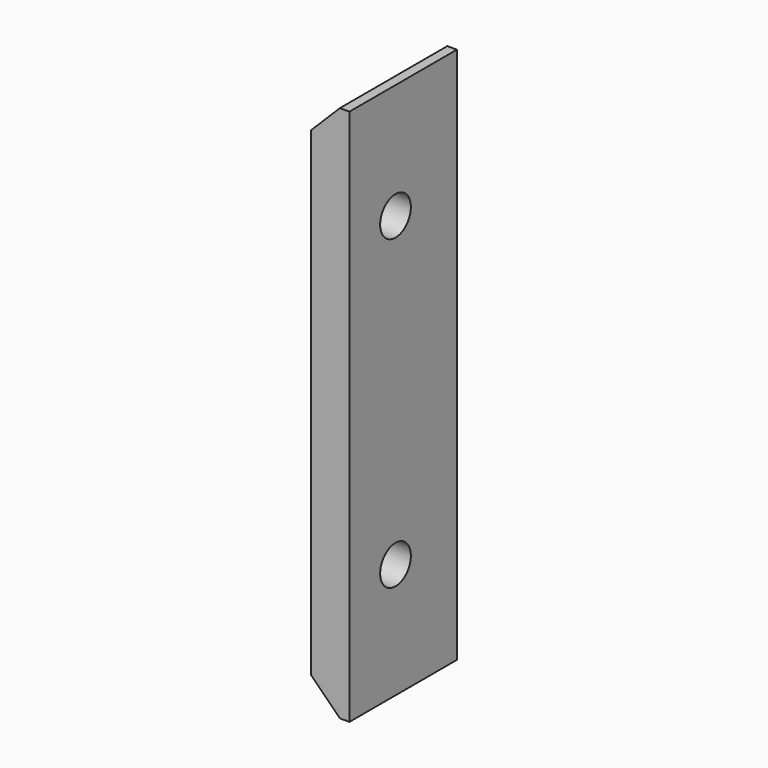
from build123d import *

# Parameters (mm, degrees)
CYLINDER2204_R     = 1
CYLINDER2204_DEPTH = 20
CYLINDER2203_R     = 1
CYLINDER2203_DEPTH = 20
BOX850_W           = 2
BOX850_H           = 7
BOX850_DEPTH       = 28
CHAMFER069_SIZE    = 1.5


with BuildPart() as obj1:
    # Cylinder2204 → Cylinder2204 (new body)
    with BuildSketch(Plane(origin=(-17, -108, 18), x_dir=(0, 0, -1), z_dir=(1, 0, 0))):
        Circle(CYLINDER2204_R)
    extrude(amount=CYLINDER2204_DEPTH)


with BuildPart() as compound986:
    # Cylinder2203 → Cylinder2203 (new body)
    with BuildSketch(Plane(origin=(-17, -108, 2), x_dir=(0, 0, -1), z_dir=(1, 0, 0))):
        Circle(CYLINDER2203_R)
    extrude(amount=CYLINDER2203_DEPTH)

    # Compound986: union obj1
    add(obj1.part)


with BuildPart() as chamfer069:
    # Box850 → Box850 (new body)
    with BuildSketch(Plane(origin=(-14.1, -111, -4), x_dir=(1, 0, 0), z_dir=(0, 0, 1))):
        with Locations((1, 3.5)):
            Rectangle(BOX850_W, BOX850_H)
    extrude(amount=BOX850_DEPTH)

    # Cut811: cut Compound986
    add(compound986.part, mode=Mode.SUBTRACT)

    # Chamfer069
    chamfer069_edges = [chamfer069.edges().sort_by_distance(p)[0] for p in [
        (-14.1, -107.5, 24),
        (-14.1, -107.5, -4),
    ]]
    chamfer(chamfer069_edges, length=CHAMFER069_SIZE)


solid = chamfer069.part
